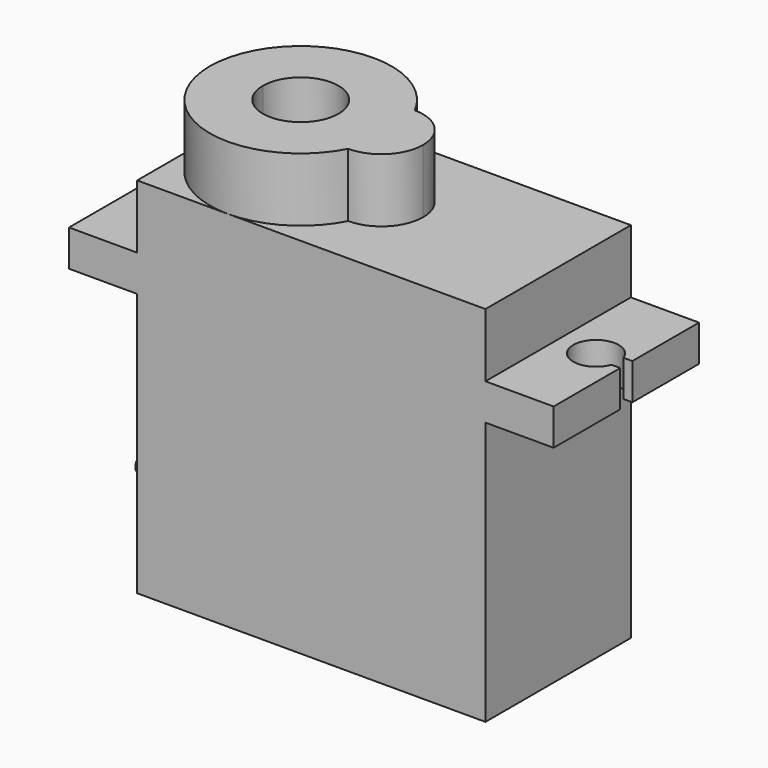
from build123d import *

# Parameters (mm, degrees)
PAD023_DEPTH         = 6
POCKET021_DEPTH      = 62.4829974073
POCKET021_DEPTH_BACK = 86.4829974073
PAD001_DEPTH         = 4.2
SKETCH003_W          = 5
SKETCH003_H          = 3.4
POCKET022_DEPTH      = 1.4
SKETCH004_R          = 0.55
PAD002_DEPTH         = 5


with BuildPart() as part:
    # Sketch044 → Pad023 (new body, symmetric)
    with BuildSketch(Plane.XZ):
        Polygon((-11.5, 0), (0, 0), (0, 24), (-11.5, 24), (-11.5, 19.8), (-16, 19.8), (-16, 17.4), (-11.5, 17.4), align=None)
    extrude(amount=PAD023_DEPTH, both=True)

    # Sketch001 → Pocket021 (cut, two sides)
    with BuildSketch(Plane.XY) as pocket021_sk:
        with BuildLine():
            ThreePointArc((-15.4142135624, -0.5), (-12.5, 0), (-15.4142135624, 0.5))
            Line((-15.4142135624, 0.5), (-19.4142135624, 0.5))
            Line((-19.4142135624, 0.5), (-19.4142135624, -0.5))
            Line((-19.4142135624, -0.5), (-15.4142135624, -0.5))
        make_face()
    extrude(amount=-POCKET021_DEPTH, mode=Mode.SUBTRACT)
    extrude(pocket021_sk.sketch, amount=POCKET021_DEPTH_BACK, mode=Mode.SUBTRACT)

    # Mirrored007: part across Sketch001 V_Axis


with BuildPart() as part_1:
    add(part.part)
    add(part.part.mirror(Plane(origin=(0, 0, 0), x_dir=(0, 0, 1), z_dir=(1, 0, 0))))

    # Sketch002 (on Face22 of Mirrored007) → Pad001 (join)
    with BuildSketch(Plane(origin=(-5.5, 0, 24), x_dir=(-1, 0, 0), z_dir=(0, 0, 1))):
        with BuildLine():
            ThreePointArc((6, 0), (1.41490397, 5.8307844031), (-5.3326822519, 2.75))
            ThreePointArc((-5.3326822519, 2.75), (-7.2772259002, 1.9445436483), (-8.0826822519, 0))
            Line((-8.0826822519, 0), (-2.5, 0))
            ThreePointArc((2.5, 0), (0, 2.5), (-2.5, 0))
            Line((2.5, 0), (6, 0))
        make_face()
    pad001 = extrude(amount=PAD001_DEPTH)

    # Mirrored008: Pad001 across Sketch002 H_Axis
    add(pad001.mirror(Plane(origin=(-5.5, 0, 24), x_dir=(0, 0, 1), z_dir=(0, -1, 0))))

    # Sketch003 (on Face3 of Mirrored008) → Pocket022 (cut)
    with BuildSketch(Plane(origin=(-11.5, 0, 0), x_dir=(0, 0, -1), z_dir=(-1, 0, 0))):
        with Locations((-2.5, 0)):
            Rectangle(SKETCH003_W, SKETCH003_H)
    extrude(amount=-POCKET022_DEPTH, mode=Mode.SUBTRACT)

    # Sketch004 (on Face28 of Pocket022) → Pad002 (join)
    with BuildSketch(Plane(origin=(-10.1, 0, 0), x_dir=(0, 0, -1), z_dir=(-1, 0, 0))):
        with Locations((-4.4, 1.1)):
            Circle(SKETCH004_R)
        with Locations((-4.4, 0)):
            Circle(SKETCH004_R)
        with Locations((-4.4, -1.1)):
            Circle(SKETCH004_R)
    extrude(amount=PAD002_DEPTH)


with BuildPart() as part_2:
    # Body018 placement: moved
    add(part_1.part.moved(Location((5.5, 0, -24))))


solid = part_2.part
